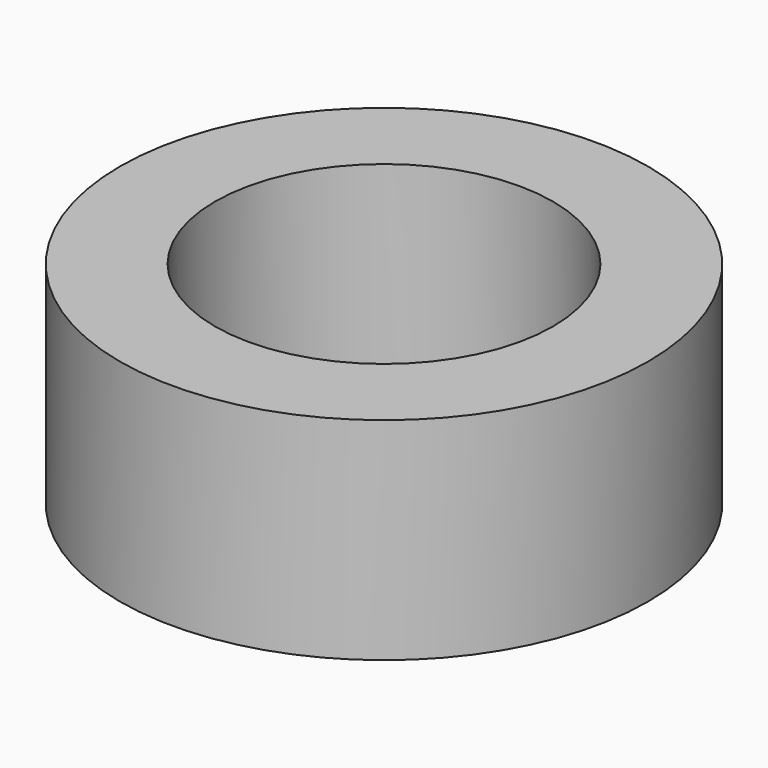
from build123d import *

# Parameters (mm, degrees)
F0_W     = 2.5
F0_H     = 2
F2_R     = 1.6
F3_DEPTH = 3


with BuildPart() as f1:
    # F0 (on Front) → F1 (revolve)
    with BuildSketch(Plane.XZ):
        with Locations((1.25, 1)):
            Rectangle(F0_W, F0_H)
    revolve(axis=Axis((0, 0, 1), (0, 0, 1)))

    # F2 (on face) → F3 (cut)
    with BuildSketch(Plane.XY.offset(2)):
        Circle(F2_R)
    extrude(amount=-F3_DEPTH, mode=Mode.SUBTRACT)


solid = f1.part
